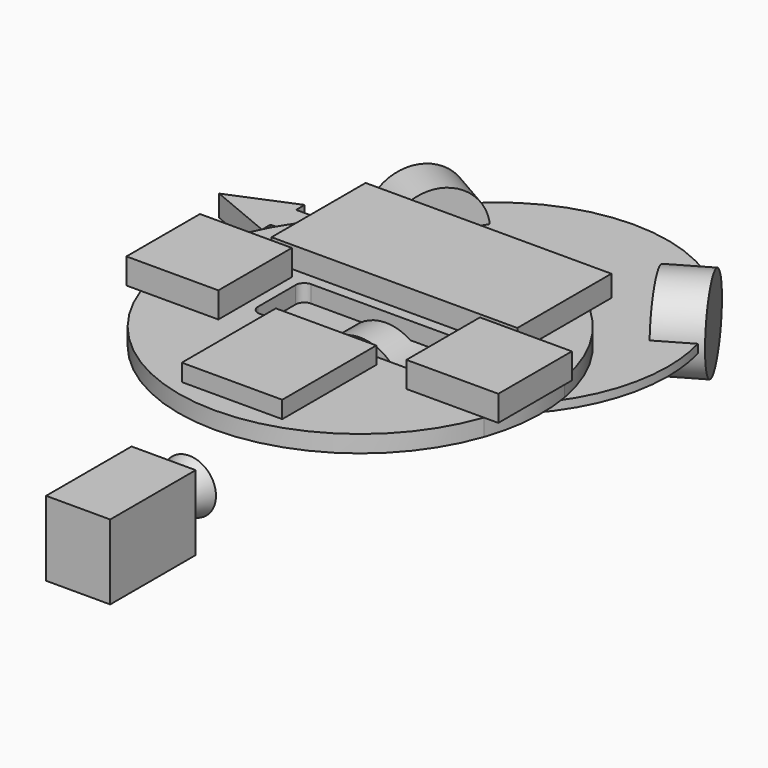
from build123d import *

# Parameters (mm, degrees)
F1_DEPTH  = 2
F4_DEPTH  = 17.5
F0_W      = 20.5
F0_H      = 2
F5_DEPTH  = 2.5
F8_DEPTH  = 5
F10_W     = 47
F10_H     = 55
F11_DEPTH = 8
F12_DEPTH = 10
F13_DEPTH = 12
F14_DEPTH = 8


with BuildPart() as f1:
    # F0 (on Top) → F1 (new body, symmetric)
    with BuildSketch(Plane.XY):
        with BuildLine():
            Line((0, 72.5), (0, 20.5))
            Line((0, 20.5), (20.5, 20.5))
            Line((20.5, 20.5), (20.5, 2.6711567395))
            ThreePointArc((20.5, 2.6711567395), (48.6164989062, 16.4670476516), (69.2820323028, 40))
            Line((69.2820323028, 40), (0, 80))
            Line((0, 80), (0, 72.5))
        make_face()
        with BuildLine():
            Line((-20.5, 20.5), (0, 20.5))
            Line((0, 20.5), (0, 72.5))
            Line((0, 72.5), (-12.9903810568, 72.5))
            Line((-12.9903810568, 72.5), (-69.2820323028, 40))
            ThreePointArc((-69.2820323028, 40), (-48.6164989062, 16.4670476516), (-20.5, 2.6711567395))
            Line((-20.5, 2.6711567395), (-20.5, 20.5))
        make_face()
        with BuildLine():
            ThreePointArc((-79.6476616104, 72.5), (-76.2172941809, 55.6910702059), (-69.2820323028, 40))
            Line((-69.2820323028, 40), (-12.9903810568, 72.5))
            Line((-12.9903810568, 72.5), (-79.6476616104, 72.5))
        make_face()
        with BuildLine():
            Line((-12.9903810568, 72.5), (0, 80))
            Line((0, 80), (-80, 80))
            ThreePointArc((-80, 80), (-79.911866856, 76.2458642026), (-79.6476616104, 72.5))
            Line((-79.6476616104, 72.5), (-12.9903810568, 72.5))
        make_face()
        with BuildLine():
            Line((0, 80), (69.2820323028, 40))
            ThreePointArc((69.2820323028, 40), (77.2740661031, 59.2944763918), (80, 80))
            ThreePointArc((80, 80), (79.3016374885, 90.5475253803), (77.2187427088, 100.9109008526))
            Line((77.2187427088, 100.9109008526), (61.7785115252, 91.9964792224))
            Line((61.7785115252, 91.9964792224), (51.5285115252, 109.75))
            Line((51.5285115252, 109.75), (69.2820323028, 120))
            ThreePointArc((69.2820323028, 120), (0, 160), (-69.2820323028, 120))
            Line((-69.2820323028, 120), (-51.5285115252, 109.75))
            Line((-51.5285115252, 109.75), (-61.7785115252, 91.9964792224))
            Line((-61.7785115252, 91.9964792224), (-77.2187427088, 100.9109008526))
            ThreePointArc((-77.2187427088, 100.9109008526), (-78.719313173, 94.2572694992), (-79.6476616104, 87.5))
            Line((-79.6476616104, 87.5), (0, 87.5))
            Line((0, 87.5), (0, 80))
        make_face()
        with BuildLine():
            Line((-12.9903810568, 72.5), (0, 80))
            Line((0, 80), (-80, 80))
            ThreePointArc((-80, 80), (-79.911866856, 76.2458642026), (-79.6476616104, 72.5))
            Line((-79.6476616104, 72.5), (-12.9903810568, 72.5))
        make_face()
        with BuildLine():
            Line((-80, 80), (0, 80))
            Line((0, 80), (0, 87.5))
            Line((0, 87.5), (-79.6476616104, 87.5))
            ThreePointArc((-79.6476616104, 87.5), (-79.911866856, 83.7541357974), (-80, 80))
        make_face()
        Polygon((-12.9903810568, 72.5), (0, 72.5), (0, 80), align=None)
    extrude(amount=F1_DEPTH, both=True)


with BuildPart() as f2:
    # F0 (on Top) → F2 (revolve)
    with BuildSketch(Plane.XY):
        with BuildLine():
            Line((0, 20.5), (0, 0))
            ThreePointArc((0, 0), (10.3366469216, 0.6705998358), (20.5, 2.6711567395))
            Line((20.5, 2.6711567395), (20.5, 20.5))
            Line((20.5, 20.5), (0, 20.5))
        make_face()
        with BuildLine():
            ThreePointArc((20.5, 2.6711567395), (10.3366469216, 0.6705998358), (0, 0))
            Line((0, 0), (20.5, 0))
            Line((20.5, 0), (20.5, 2.6711567395))
        make_face()
    revolve(axis=Axis((0, 10.25, 0), (0, 1, 0)))


with BuildPart() as f3:
    # F0 (on Top) → F3 (revolve)
    with BuildSketch(Plane.XY):
        Polygon((12.5, -100), (0, -100), (0, -115), (6.25, -115), align=None)
    revolve(axis=Axis((0, -115, 0), (0, -1, 0)))

    # F0 (on Top) → F4 (join, symmetric)
    with BuildSketch(Plane.XY):
        Polygon((0, -130), (0, -115), (-15, -115), (-15, -165), (15, -165), (15, -115), (6.25, -115), align=None)
        Polygon((6.25, -115), (0, -115), (0, -130), align=None)
    extrude(amount=F4_DEPTH, both=True)


with BuildPart() as f5:
    # F0 (on Top) → F5 (new body, symmetric)
    with BuildSketch(Plane.XY):
        with Locations((10.25, -1)):
            Rectangle(F0_W, F0_H)
    extrude(amount=F5_DEPTH, both=True)


with BuildPart() as f6:
    # F0 (on Top) → F6 (revolve)
    with BuildSketch(Plane.XY):
        with BuildLine():
            Line((61.7785115252, 91.9964792224), (77.2187427088, 100.9109008526))
            ThreePointArc((77.2187427088, 100.9109008526), (73.86959927, 110.7129012581), (69.2820323028, 120))
            Line((69.2820323028, 120), (51.5285115252, 109.75))
            Line((51.5285115252, 109.75), (61.7785115252, 91.9964792224))
        make_face()
        with BuildLine():
            ThreePointArc((69.2820323028, 120), (73.86959927, 110.7129012581), (77.2187427088, 100.9109008526))
            Line((77.2187427088, 100.9109008526), (79.5320323028, 102.2464792224))
            Line((79.5320323028, 102.2464792224), (69.2820323028, 120))
        make_face()
    revolve(axis=Axis((60.405271914, 114.875, 0), (-0.8660254038, -0.5, 0)))


with BuildPart() as f7:
    # F0 (on Top) → F7 (revolve)
    with BuildSketch(Plane.XY):
        with BuildLine():
            ThreePointArc((-69.2820323028, 120), (-73.86959927, 110.7129012581), (-77.2187427088, 100.9109008526))
            Line((-77.2187427088, 100.9109008526), (-61.7785115252, 91.9964792224))
            Line((-61.7785115252, 91.9964792224), (-51.5285115252, 109.75))
            Line((-51.5285115252, 109.75), (-69.2820323028, 120))
        make_face()
        with BuildLine():
            Line((-79.5320323028, 102.2464792224), (-77.2187427088, 100.9109008526))
            ThreePointArc((-77.2187427088, 100.9109008526), (-73.86959927, 110.7129012581), (-69.2820323028, 120))
            Line((-69.2820323028, 120), (-79.5320323028, 102.2464792224))
        make_face()
    revolve(axis=Axis((-60.405271914, 114.875, 0), (0.8660254038, -0.5, 0)))


with BuildPart() as f8:
    # F0 (on Top) → F8 (new body, symmetric)
    with BuildSketch(Plane.XY):
        Polygon((-100, 67.5), (-100, 72.5), (-100, 80), (-130, 80), align=None)
        Polygon((-130, 80), (-100, 80), (-100, 87.5), (-100, 92.5), align=None)
        with BuildLine():
            Line((-100, 80), (-80, 80))
            ThreePointArc((-80, 80), (-79.911866856, 83.7541357974), (-79.6476616104, 87.5))
            Line((-79.6476616104, 87.5), (-100, 87.5))
            Line((-100, 87.5), (-100, 80))
        make_face()
        with BuildLine():
            Line((-100, 72.5), (-79.6476616104, 72.5))
            ThreePointArc((-79.6476616104, 72.5), (-79.911866856, 76.2458642026), (-80, 80))
            Line((-80, 80), (-100, 80))
            Line((-100, 80), (-100, 72.5))
        make_face()
        with BuildLine():
            Line((-80, 80), (0, 80))
            Line((0, 80), (0, 87.5))
            Line((0, 87.5), (-79.6476616104, 87.5))
            ThreePointArc((-79.6476616104, 87.5), (-79.911866856, 83.7541357974), (-80, 80))
        make_face()
        with BuildLine():
            Line((-12.9903810568, 72.5), (0, 80))
            Line((0, 80), (-80, 80))
            ThreePointArc((-80, 80), (-79.911866856, 76.2458642026), (-79.6476616104, 72.5))
            Line((-79.6476616104, 72.5), (-12.9903810568, 72.5))
        make_face()
        Polygon((-12.9903810568, 72.5), (0, 72.5), (0, 80), align=None)
    extrude(amount=F8_DEPTH, both=True)


with BuildPart() as f11:
    # F10 (on offset) → F11 (new body)
    with BuildSketch(Plane.XY.offset(25)):
        with BuildLine():
            Line((-57.5, 20), (-57.5, 62.5999201277))
            ThreePointArc((-57.5, 62.5999201277), (-74.4875706096, 40.946328586), (-83.6660026534, 15))
            Line((-83.6660026534, 15), (-44, 15))
            Line((-44, 15), (-44, -28))
            Line((-44, -28), (-80.2558409089, -28))
            ThreePointArc((-80.2558409089, -28), (0, -85), (80.2558409089, -28))
            Line((80.2558409089, -28), (44, -28))
            Line((44, -28), (44, 15))
            Line((44, 15), (83.6660026534, 15))
            ThreePointArc((83.6660026534, 15), (74.4875706096, 40.946328586), (57.5, 62.5999201277))
            Line((57.5, 62.5999201277), (57.5, 20))
            Line((57.5, 20), (-57.5, 20))
        make_face()
        with Locations((0, -47.5)):
            Rectangle(F10_W, F10_H, mode=Mode.SUBTRACT)
        with BuildLine():
            ThreePointArc((-39, 11), (-37.8284271247, 13.8284271247), (-35, 15))
            Line((-35, 15), (0, 15))
            Line((0, 15), (35, 15))
            ThreePointArc((35, 15), (37.8284271247, 13.8284271247), (39, 11))
            Line((39, 11), (39, 0))
            Line((39, 0), (39, -11))
            ThreePointArc((39, -11), (37.8284271247, -13.8284271247), (35, -15))
            Line((35, -15), (0, -15))
            Line((0, -15), (-35, -15))
            ThreePointArc((-35, -15), (-37.8284271247, -13.8284271247), (-39, -11))
            Line((-39, -11), (-39, 0))
            Line((-39, 0), (-39, 11))
        make_face(mode=Mode.SUBTRACT)
        with BuildLine():
            Line((-44, 15), (-83.6660026534, 15))
            ThreePointArc((-83.6660026534, 15), (-84.7339524584, -6.7199182124), (-80.2558409089, -28))
            Line((-80.2558409089, -28), (-44, -28))
            Line((-44, -28), (-44, 15))
        make_face()
        with Locations((0, -47.5)):
            Rectangle(F10_W, F10_H)
        with BuildLine():
            Line((44, -28), (80.2558409089, -28))
            ThreePointArc((80.2558409089, -28), (84.7339524584, -6.7199182124), (83.6660026534, 15))
            Line((83.6660026534, 15), (44, 15))
            Line((44, 15), (44, -28))
        make_face()
        with BuildLine():
            ThreePointArc((0, 65), (-20.6155281281, 67.5378874876), (-40, 75))
            ThreePointArc((-40, 75), (-49.1426799759, 69.354141944), (-57.5, 62.5999201277))
            Line((-57.5, 62.5999201277), (-57.5, 20))
            Line((-57.5, 20), (57.5, 20))
            Line((57.5, 20), (57.5, 62.5999201277))
            ThreePointArc((57.5, 62.5999201277), (49.1426799759, 69.354141944), (40, 75))
            ThreePointArc((40, 75), (20.6155281281, 67.5378874876), (0, 65))
        make_face()
    extrude(amount=-F11_DEPTH)

    # F10 (on offset) → F14 (join)
    with BuildSketch(Plane.XY.offset(25)):
        with Locations((0, -47.5)):
            Rectangle(F10_W, F10_H)
    extrude(amount=F14_DEPTH)


with BuildPart() as f12:
    # F10 (on offset) → F12 (new body)
    with BuildSketch(Plane.XY.offset(25)):
        with BuildLine():
            Line((0, 75), (0, 65))
            ThreePointArc((0, 65), (20.6155281281, 67.5378874876), (40, 75))
            Line((40, 75), (0, 75))
        make_face()
        with BuildLine():
            Line((0, 75), (-40, 75))
            ThreePointArc((-40, 75), (-20.6155281281, 67.5378874876), (0, 65))
            Line((0, 65), (0, 75))
        make_face()
        with BuildLine():
            ThreePointArc((-57.5, 62.5999201277), (-49.1426799759, 69.354141944), (-40, 75))
            Line((-40, 75), (-57.5, 75))
            Line((-57.5, 75), (-57.5, 62.5999201277))
        make_face()
        with BuildLine():
            Line((57.5, 75), (40, 75))
            ThreePointArc((40, 75), (49.1426799759, 69.354141944), (57.5, 62.5999201277))
            Line((57.5, 62.5999201277), (57.5, 75))
        make_face()
        with BuildLine():
            ThreePointArc((0, 65), (-20.6155281281, 67.5378874876), (-40, 75))
            ThreePointArc((-40, 75), (-49.1426799759, 69.354141944), (-57.5, 62.5999201277))
            Line((-57.5, 62.5999201277), (-57.5, 20))
            Line((-57.5, 20), (57.5, 20))
            Line((57.5, 20), (57.5, 62.5999201277))
            ThreePointArc((57.5, 62.5999201277), (49.1426799759, 69.354141944), (40, 75))
            ThreePointArc((40, 75), (20.6155281281, 67.5378874876), (0, 65))
        make_face()
    extrude(amount=F12_DEPTH)


with BuildPart() as f13:
    # F10 (on offset) → F13 (new body)
    with BuildSketch(Plane.XY.offset(25)):
        with BuildLine():
            ThreePointArc((-80.2558409089, -28), (-84.7339524584, -6.7199182124), (-83.6660026534, 15))
            Line((-83.6660026534, 15), (-87, 15))
            Line((-87, 15), (-87, -28))
            Line((-87, -28), (-80.2558409089, -28))
        make_face()
        with BuildLine():
            Line((-44, 15), (-83.6660026534, 15))
            ThreePointArc((-83.6660026534, 15), (-84.7339524584, -6.7199182124), (-80.2558409089, -28))
            Line((-80.2558409089, -28), (-44, -28))
            Line((-44, -28), (-44, 15))
        make_face()
    extrude(amount=F13_DEPTH)


with BuildPart() as f13b:
    # F10 (on offset) → F13, piece 2 (new body)
    with BuildSketch(Plane.XY.offset(25)):
        with BuildLine():
            Line((44, -28), (80.2558409089, -28))
            ThreePointArc((80.2558409089, -28), (84.7339524584, -6.7199182124), (83.6660026534, 15))
            Line((83.6660026534, 15), (44, 15))
            Line((44, 15), (44, -28))
        make_face()
        with BuildLine():
            ThreePointArc((83.6660026534, 15), (84.7339524584, -6.7199182124), (80.2558409089, -28))
            Line((80.2558409089, -28), (87, -28))
            Line((87, -28), (87, 15))
            Line((87, 15), (83.6660026534, 15))
        make_face()
    extrude(amount=F13_DEPTH)


solid = Compound([f1.part, f2.part, f3.part, f5.part, f6.part, f7.part, f8.part, f11.part, f12.part, f13.part, f13b.part])
